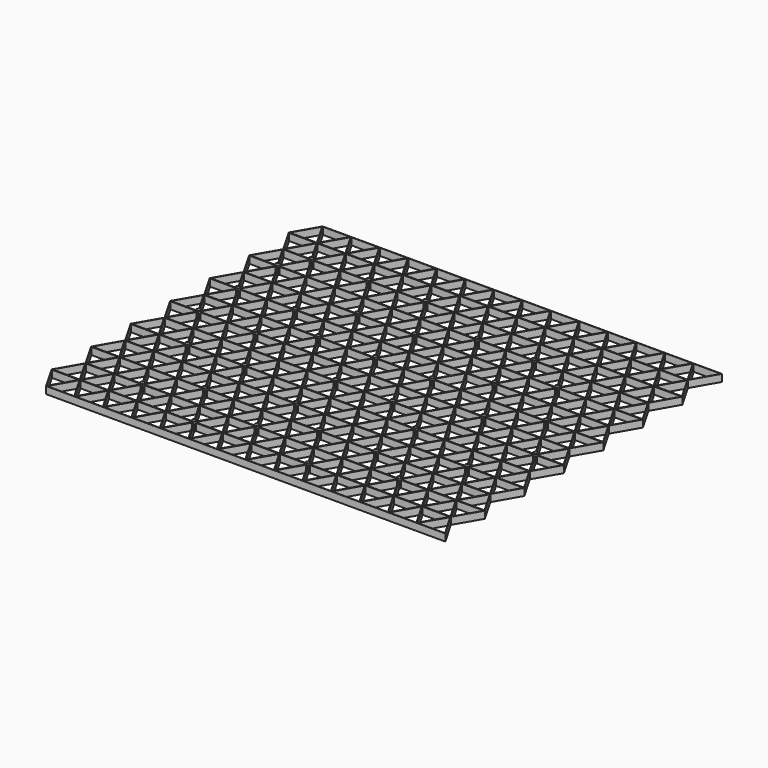
from build123d import *

# Parameters (mm, degrees)
F1_DEPTH = 5
F2_R     = 1.5
F3_DEPTH = 6


with BuildPart() as f1:
    # F0 (on Top) → F1 (new body)
    with BuildSketch(Plane.XY):
        Polygon((0, 34.641016), (10, 17.320508), (0, 0), (10, -17.320508), (30, -17.320508), (50, -17.320508), (70, -17.320508), (90, -17.320508), (110, -17.320508), (130, -17.320508), (150, -17.320508), (170, -17.320508), (190, -17.320508), (210, -17.320508), (230, -17.320508), (250, -17.320508), (270, -17.320508), (290, -17.320508), (280, 0), (290, 17.320508), (280, 34.641016), (290, 51.961524), (280, 69.282032), (290, 86.60254), (280, 103.923048), (290, 121.243557), (280, 138.564065), (290, 155.884573), (280, 173.205081), (290, 190.525589), (280, 207.846097), (290, 225.166605), (270, 225.166605), (250, 225.166605), (230, 225.166605), (210, 225.166605), (190, 225.166605), (170, 225.166605), (150, 225.166605), (130, 225.166605), (110, 225.166605), (90, 225.166605), (70, 225.166605), (50, 225.166605), (30, 225.166605), (10, 225.166605), (0, 207.846097), (10, 190.525589), (0, 173.205081), (10, 155.884573), (0, 138.564065), (10, 121.243557), (0, 103.923048), (10, 86.60254), (0, 69.282032), (10, 51.961524), align=None)
        Polygon((10, -16.820508), (0.433013, -0.25), (19.566987, -0.25), align=None, mode=Mode.SUBTRACT)
        Polygon((10.433013, -17.070508), (20, -0.5), (29.566987, -17.070508), align=None, mode=Mode.SUBTRACT)
        Polygon((30, -16.820508), (20.433013, -0.25), (39.566987, -0.25), align=None, mode=Mode.SUBTRACT)
        Polygon((19.566987, 0.25), (0.433013, 0.25), (10, 16.820508), align=None, mode=Mode.SUBTRACT)
        Polygon((29.566987, 17.070508), (20, 0.5), (10.433013, 17.070508), align=None, mode=Mode.SUBTRACT)
        Polygon((20.433013, 0.25), (30, 16.820508), (39.566987, 0.25), align=None, mode=Mode.SUBTRACT)
        Polygon((10, 17.820508), (0.433013, 34.391016), (19.566987, 34.391016), align=None, mode=Mode.SUBTRACT)
        Polygon((29.566987, 17.570508), (10.433013, 17.570508), (20, 34.141016), align=None, mode=Mode.SUBTRACT)
        Polygon((30, 17.820508), (20.433013, 34.391016), (39.566987, 34.391016), align=None, mode=Mode.SUBTRACT)
        Polygon((49.566987, -17.070508), (30.433013, -17.070508), (40, -0.5), align=None, mode=Mode.SUBTRACT)
        Polygon((50, -16.820508), (40.433013, -0.25), (59.566987, -0.25), align=None, mode=Mode.SUBTRACT)
        Polygon((69.566987, -17.070508), (50.433013, -17.070508), (60, -0.5), align=None, mode=Mode.SUBTRACT)
        Polygon((70, -16.820508), (60.433013, -0.25), (79.566987, -0.25), align=None, mode=Mode.SUBTRACT)
        Polygon((89.566987, -17.070508), (70.433013, -17.070508), (80, -0.5), align=None, mode=Mode.SUBTRACT)
        Polygon((90, -16.820508), (80.433013, -0.25), (99.566987, -0.25), align=None, mode=Mode.SUBTRACT)
        Polygon((109.566987, -17.070508), (90.433013, -17.070508), (100, -0.5), align=None, mode=Mode.SUBTRACT)
        Polygon((110, -16.820508), (100.433013, -0.25), (119.566987, -0.25), align=None, mode=Mode.SUBTRACT)
        Polygon((129.566987, -17.070508), (110.433013, -17.070508), (120, -0.5), align=None, mode=Mode.SUBTRACT)
        Polygon((130, -16.820508), (120.433013, -0.25), (139.566987, -0.25), align=None, mode=Mode.SUBTRACT)
        Polygon((49.566987, 17.070508), (40, 0.5), (30.433013, 17.070508), align=None, mode=Mode.SUBTRACT)
        Polygon((40.433013, 0.25), (50, 16.820508), (59.566987, 0.25), align=None, mode=Mode.SUBTRACT)
        Polygon((69.566987, 17.070508), (60, 0.5), (50.433013, 17.070508), align=None, mode=Mode.SUBTRACT)
        Polygon((60.433013, 0.25), (70, 16.820508), (79.566987, 0.25), align=None, mode=Mode.SUBTRACT)
        Polygon((89.566987, 17.070508), (80, 0.5), (70.433013, 17.070508), align=None, mode=Mode.SUBTRACT)
        Polygon((49.566987, 17.570508), (30.433013, 17.570508), (40, 34.141016), align=None, mode=Mode.SUBTRACT)
        Polygon((50, 17.820508), (40.433013, 34.391016), (59.566987, 34.391016), align=None, mode=Mode.SUBTRACT)
        Polygon((69.566987, 17.570508), (50.433013, 17.570508), (60, 34.141016), align=None, mode=Mode.SUBTRACT)
        Polygon((70, 17.820508), (60.433013, 34.391016), (79.566987, 34.391016), align=None, mode=Mode.SUBTRACT)
        Polygon((89.566987, 17.570508), (70.433013, 17.570508), (80, 34.141016), align=None, mode=Mode.SUBTRACT)
        Polygon((80.433013, 0.25), (90, 16.820508), (99.566987, 0.25), align=None, mode=Mode.SUBTRACT)
        Polygon((109.566987, 17.070508), (100, 0.5), (90.433013, 17.070508), align=None, mode=Mode.SUBTRACT)
        Polygon((100.433013, 0.25), (110, 16.820508), (119.566987, 0.25), align=None, mode=Mode.SUBTRACT)
        Polygon((129.566987, 17.070508), (120, 0.5), (110.433013, 17.070508), align=None, mode=Mode.SUBTRACT)
        Polygon((120.433013, 0.25), (130, 16.820508), (139.566987, 0.25), align=None, mode=Mode.SUBTRACT)
        Polygon((90, 17.820508), (80.433013, 34.391016), (99.566987, 34.391016), align=None, mode=Mode.SUBTRACT)
        Polygon((109.566987, 17.570508), (90.433013, 17.570508), (100, 34.141016), align=None, mode=Mode.SUBTRACT)
        Polygon((110, 17.820508), (100.433013, 34.391016), (119.566987, 34.391016), align=None, mode=Mode.SUBTRACT)
        Polygon((129.566987, 17.570508), (110.433013, 17.570508), (120, 34.141016), align=None, mode=Mode.SUBTRACT)
        Polygon((130, 17.820508), (120.433013, 34.391016), (139.566987, 34.391016), align=None, mode=Mode.SUBTRACT)
        Polygon((0.433013, 34.891016), (10, 51.461524), (19.566987, 34.891016), align=None, mode=Mode.SUBTRACT)
        Polygon((29.566987, 51.711524), (20, 35.141016), (10.433013, 51.711524), align=None, mode=Mode.SUBTRACT)
        Polygon((20.433013, 34.891016), (30, 51.461524), (39.566987, 34.891016), align=None, mode=Mode.SUBTRACT)
        Polygon((10, 52.461524), (0.433013, 69.032032), (19.566987, 69.032032), align=None, mode=Mode.SUBTRACT)
        Polygon((29.566987, 52.211524), (10.433013, 52.211524), (20, 68.782032), align=None, mode=Mode.SUBTRACT)
        Polygon((30, 52.461524), (20.433013, 69.032032), (39.566987, 69.032032), align=None, mode=Mode.SUBTRACT)
        Polygon((0.433013, 69.532032), (10, 86.10254), (19.566987, 69.532032), align=None, mode=Mode.SUBTRACT)
        Polygon((29.566987, 86.35254), (20, 69.782032), (10.433013, 86.35254), align=None, mode=Mode.SUBTRACT)
        Polygon((20.433013, 69.532032), (30, 86.10254), (39.566987, 69.532032), align=None, mode=Mode.SUBTRACT)
        Polygon((10, 87.10254), (0.433013, 103.673048), (19.566987, 103.673048), align=None, mode=Mode.SUBTRACT)
        Polygon((29.566987, 86.85254), (10.433013, 86.85254), (20, 103.423048), align=None, mode=Mode.SUBTRACT)
        Polygon((30, 87.10254), (20.433013, 103.673048), (39.566987, 103.673048), align=None, mode=Mode.SUBTRACT)
        Polygon((49.566987, 51.711524), (40, 35.141016), (30.433013, 51.711524), align=None, mode=Mode.SUBTRACT)
        Polygon((40.433013, 34.891016), (50, 51.461524), (59.566987, 34.891016), align=None, mode=Mode.SUBTRACT)
        Polygon((69.566987, 51.711524), (60, 35.141016), (50.433013, 51.711524), align=None, mode=Mode.SUBTRACT)
        Polygon((60.433013, 34.891016), (70, 51.461524), (79.566987, 34.891016), align=None, mode=Mode.SUBTRACT)
        Polygon((89.566987, 51.711524), (80, 35.141016), (70.433013, 51.711524), align=None, mode=Mode.SUBTRACT)
        Polygon((49.566987, 52.211524), (30.433013, 52.211524), (40, 68.782032), align=None, mode=Mode.SUBTRACT)
        Polygon((50, 52.461524), (40.433013, 69.032032), (59.566987, 69.032032), align=None, mode=Mode.SUBTRACT)
        Polygon((69.566987, 52.211524), (50.433013, 52.211524), (60, 68.782032), align=None, mode=Mode.SUBTRACT)
        Polygon((70, 52.461524), (60.433013, 69.032032), (79.566987, 69.032032), align=None, mode=Mode.SUBTRACT)
        Polygon((89.566987, 52.211524), (70.433013, 52.211524), (80, 68.782032), align=None, mode=Mode.SUBTRACT)
        Polygon((80.433013, 34.891016), (90, 51.461524), (99.566987, 34.891016), align=None, mode=Mode.SUBTRACT)
        Polygon((109.566987, 51.711524), (100, 35.141016), (90.433013, 51.711524), align=None, mode=Mode.SUBTRACT)
        Polygon((100.433013, 34.891016), (110, 51.461524), (119.566987, 34.891016), align=None, mode=Mode.SUBTRACT)
        Polygon((129.566987, 51.711524), (120, 35.141016), (110.433013, 51.711524), align=None, mode=Mode.SUBTRACT)
        Polygon((120.433013, 34.891016), (130, 51.461524), (139.566987, 34.891016), align=None, mode=Mode.SUBTRACT)
        Polygon((90, 52.461524), (80.433013, 69.032032), (99.566987, 69.032032), align=None, mode=Mode.SUBTRACT)
        Polygon((109.566987, 52.211524), (90.433013, 52.211524), (100, 68.782032), align=None, mode=Mode.SUBTRACT)
        Polygon((110, 52.461524), (100.433013, 69.032032), (119.566987, 69.032032), align=None, mode=Mode.SUBTRACT)
        Polygon((129.566987, 52.211524), (110.433013, 52.211524), (120, 68.782032), align=None, mode=Mode.SUBTRACT)
        Polygon((130, 52.461524), (120.433013, 69.032032), (139.566987, 69.032032), align=None, mode=Mode.SUBTRACT)
        Polygon((49.566987, 86.35254), (40, 69.782032), (30.433013, 86.35254), align=None, mode=Mode.SUBTRACT)
        Polygon((40.433013, 69.532032), (50, 86.10254), (59.566987, 69.532032), align=None, mode=Mode.SUBTRACT)
        Polygon((69.566987, 86.35254), (60, 69.782032), (50.433013, 86.35254), align=None, mode=Mode.SUBTRACT)
        Polygon((60.433013, 69.532032), (70, 86.10254), (79.566987, 69.532032), align=None, mode=Mode.SUBTRACT)
        Polygon((89.566987, 86.35254), (80, 69.782032), (70.433013, 86.35254), align=None, mode=Mode.SUBTRACT)
        Polygon((49.566987, 86.85254), (30.433013, 86.85254), (40, 103.423048), align=None, mode=Mode.SUBTRACT)
        Polygon((50, 87.10254), (40.433013, 103.673048), (59.566987, 103.673048), align=None, mode=Mode.SUBTRACT)
        Polygon((69.566987, 86.85254), (50.433013, 86.85254), (60, 103.423048), align=None, mode=Mode.SUBTRACT)
        Polygon((70, 87.10254), (60.433013, 103.673048), (79.566987, 103.673048), align=None, mode=Mode.SUBTRACT)
        Polygon((89.566987, 86.85254), (70.433013, 86.85254), (80, 103.423048), align=None, mode=Mode.SUBTRACT)
        Polygon((80.433013, 69.532032), (90, 86.10254), (99.566987, 69.532032), align=None, mode=Mode.SUBTRACT)
        Polygon((109.566987, 86.35254), (100, 69.782032), (90.433013, 86.35254), align=None, mode=Mode.SUBTRACT)
        Polygon((100.433013, 69.532032), (110, 86.10254), (119.566987, 69.532032), align=None, mode=Mode.SUBTRACT)
        Polygon((129.566987, 86.35254), (120, 69.782032), (110.433013, 86.35254), align=None, mode=Mode.SUBTRACT)
        Polygon((120.433013, 69.532032), (130, 86.10254), (139.566987, 69.532032), align=None, mode=Mode.SUBTRACT)
        Polygon((90, 87.10254), (80.433013, 103.673048), (99.566987, 103.673048), align=None, mode=Mode.SUBTRACT)
        Polygon((109.566987, 86.85254), (90.433013, 86.85254), (100, 103.423048), align=None, mode=Mode.SUBTRACT)
        Polygon((110, 87.10254), (100.433013, 103.673048), (119.566987, 103.673048), align=None, mode=Mode.SUBTRACT)
        Polygon((129.566987, 86.85254), (110.433013, 86.85254), (120, 103.423048), align=None, mode=Mode.SUBTRACT)
        Polygon((130, 87.10254), (120.433013, 103.673048), (139.566987, 103.673048), align=None, mode=Mode.SUBTRACT)
        Polygon((149.566987, -17.070508), (130.433013, -17.070508), (140, -0.5), align=None, mode=Mode.SUBTRACT)
        Polygon((150, -16.820508), (140.433013, -0.25), (159.566987, -0.25), align=None, mode=Mode.SUBTRACT)
        Polygon((169.566987, -17.070508), (150.433013, -17.070508), (160, -0.5), align=None, mode=Mode.SUBTRACT)
        Polygon((170, -16.820508), (160.433013, -0.25), (179.566987, -0.25), align=None, mode=Mode.SUBTRACT)
        Polygon((189.566987, -17.070508), (170.433013, -17.070508), (180, -0.5), align=None, mode=Mode.SUBTRACT)
        Polygon((190, -16.820508), (180.433013, -0.25), (199.566987, -0.25), align=None, mode=Mode.SUBTRACT)
        Polygon((209.566987, -17.070508), (190.433013, -17.070508), (200, -0.5), align=None, mode=Mode.SUBTRACT)
        Polygon((210, -16.820508), (200.433013, -0.25), (219.566987, -0.25), align=None, mode=Mode.SUBTRACT)
        Polygon((229.566987, -17.070508), (210.433013, -17.070508), (220, -0.5), align=None, mode=Mode.SUBTRACT)
        Polygon((230, -16.820508), (220.433013, -0.25), (239.566987, -0.25), align=None, mode=Mode.SUBTRACT)
        Polygon((249.566987, -17.070508), (230.433013, -17.070508), (240, -0.5), align=None, mode=Mode.SUBTRACT)
        Polygon((149.566987, 17.070508), (140, 0.5), (130.433013, 17.070508), align=None, mode=Mode.SUBTRACT)
        Polygon((140.433013, 0.25), (150, 16.820508), (159.566987, 0.25), align=None, mode=Mode.SUBTRACT)
        Polygon((169.566987, 17.070508), (160, 0.5), (150.433013, 17.070508), align=None, mode=Mode.SUBTRACT)
        Polygon((160.433013, 0.25), (170, 16.820508), (179.566987, 0.25), align=None, mode=Mode.SUBTRACT)
        Polygon((189.566987, 17.070508), (180, 0.5), (170.433013, 17.070508), align=None, mode=Mode.SUBTRACT)
        Polygon((180.433013, 0.25), (190, 16.820508), (199.566987, 0.25), align=None, mode=Mode.SUBTRACT)
        Polygon((149.566987, 17.570508), (130.433013, 17.570508), (140, 34.141016), align=None, mode=Mode.SUBTRACT)
        Polygon((150, 17.820508), (140.433013, 34.391016), (159.566987, 34.391016), align=None, mode=Mode.SUBTRACT)
        Polygon((169.566987, 17.570508), (150.433013, 17.570508), (160, 34.141016), align=None, mode=Mode.SUBTRACT)
        Polygon((170, 17.820508), (160.433013, 34.391016), (179.566987, 34.391016), align=None, mode=Mode.SUBTRACT)
        Polygon((189.566987, 17.570508), (170.433013, 17.570508), (180, 34.141016), align=None, mode=Mode.SUBTRACT)
        Polygon((190, 17.820508), (180.433013, 34.391016), (199.566987, 34.391016), align=None, mode=Mode.SUBTRACT)
        Polygon((209.566987, 17.070508), (200, 0.5), (190.433013, 17.070508), align=None, mode=Mode.SUBTRACT)
        Polygon((200.433013, 0.25), (210, 16.820508), (219.566987, 0.25), align=None, mode=Mode.SUBTRACT)
        Polygon((229.566987, 17.070508), (220, 0.5), (210.433013, 17.070508), align=None, mode=Mode.SUBTRACT)
        Polygon((220.433013, 0.25), (230, 16.820508), (239.566987, 0.25), align=None, mode=Mode.SUBTRACT)
        Polygon((249.566987, 17.070508), (240, 0.5), (230.433013, 17.070508), align=None, mode=Mode.SUBTRACT)
        Polygon((209.566987, 17.570508), (190.433013, 17.570508), (200, 34.141016), align=None, mode=Mode.SUBTRACT)
        Polygon((210, 17.820508), (200.433013, 34.391016), (219.566987, 34.391016), align=None, mode=Mode.SUBTRACT)
        Polygon((229.566987, 17.570508), (210.433013, 17.570508), (220, 34.141016), align=None, mode=Mode.SUBTRACT)
        Polygon((230, 17.820508), (220.433013, 34.391016), (239.566987, 34.391016), align=None, mode=Mode.SUBTRACT)
        Polygon((249.566987, 17.570508), (230.433013, 17.570508), (240, 34.141016), align=None, mode=Mode.SUBTRACT)
        Polygon((250, -16.820508), (240.433013, -0.25), (259.566987, -0.25), align=None, mode=Mode.SUBTRACT)
        Polygon((269.566987, -17.070508), (250.433013, -17.070508), (260, -0.5), align=None, mode=Mode.SUBTRACT)
        Polygon((270, -16.820508), (260.433013, -0.25), (279.566987, -0.25), align=None, mode=Mode.SUBTRACT)
        Polygon((289.566987, -17.070508), (270.433013, -17.070508), (280, -0.5), align=None, mode=Mode.SUBTRACT)
        Polygon((240.433013, 0.25), (250, 16.820508), (259.566987, 0.25), align=None, mode=Mode.SUBTRACT)
        Polygon((269.566987, 17.070508), (260, 0.5), (250.433013, 17.070508), align=None, mode=Mode.SUBTRACT)
        Polygon((260.433013, 0.25), (270, 16.820508), (279.566987, 0.25), align=None, mode=Mode.SUBTRACT)
        Polygon((289.566987, 17.070508), (280, 0.5), (270.433013, 17.070508), align=None, mode=Mode.SUBTRACT)
        Polygon((250, 17.820508), (240.433013, 34.391016), (259.566987, 34.391016), align=None, mode=Mode.SUBTRACT)
        Polygon((269.566987, 17.570508), (250.433013, 17.570508), (260, 34.141016), align=None, mode=Mode.SUBTRACT)
        Polygon((270, 17.820508), (260.433013, 34.391016), (279.566987, 34.391016), align=None, mode=Mode.SUBTRACT)
        Polygon((289.566987, 17.570508), (270.433013, 17.570508), (280, 34.141016), align=None, mode=Mode.SUBTRACT)
        Polygon((149.566987, 51.711524), (140, 35.141016), (130.433013, 51.711524), align=None, mode=Mode.SUBTRACT)
        Polygon((140.433013, 34.891016), (150, 51.461524), (159.566987, 34.891016), align=None, mode=Mode.SUBTRACT)
        Polygon((169.566987, 51.711524), (160, 35.141016), (150.433013, 51.711524), align=None, mode=Mode.SUBTRACT)
        Polygon((160.433013, 34.891016), (170, 51.461524), (179.566987, 34.891016), align=None, mode=Mode.SUBTRACT)
        Polygon((189.566987, 51.711524), (180, 35.141016), (170.433013, 51.711524), align=None, mode=Mode.SUBTRACT)
        Polygon((180.433013, 34.891016), (190, 51.461524), (199.566987, 34.891016), align=None, mode=Mode.SUBTRACT)
        Polygon((149.566987, 52.211524), (130.433013, 52.211524), (140, 68.782032), align=None, mode=Mode.SUBTRACT)
        Polygon((150, 52.461524), (140.433013, 69.032032), (159.566987, 69.032032), align=None, mode=Mode.SUBTRACT)
        Polygon((169.566987, 52.211524), (150.433013, 52.211524), (160, 68.782032), align=None, mode=Mode.SUBTRACT)
        Polygon((170, 52.461524), (160.433013, 69.032032), (179.566987, 69.032032), align=None, mode=Mode.SUBTRACT)
        Polygon((189.566987, 52.211524), (170.433013, 52.211524), (180, 68.782032), align=None, mode=Mode.SUBTRACT)
        Polygon((190, 52.461524), (180.433013, 69.032032), (199.566987, 69.032032), align=None, mode=Mode.SUBTRACT)
        Polygon((209.566987, 51.711524), (200, 35.141016), (190.433013, 51.711524), align=None, mode=Mode.SUBTRACT)
        Polygon((200.433013, 34.891016), (210, 51.461524), (219.566987, 34.891016), align=None, mode=Mode.SUBTRACT)
        Polygon((229.566987, 51.711524), (220, 35.141016), (210.433013, 51.711524), align=None, mode=Mode.SUBTRACT)
        Polygon((220.433013, 34.891016), (230, 51.461524), (239.566987, 34.891016), align=None, mode=Mode.SUBTRACT)
        Polygon((249.566987, 51.711524), (240, 35.141016), (230.433013, 51.711524), align=None, mode=Mode.SUBTRACT)
        Polygon((209.566987, 52.211524), (190.433013, 52.211524), (200, 68.782032), align=None, mode=Mode.SUBTRACT)
        Polygon((210, 52.461524), (200.433013, 69.032032), (219.566987, 69.032032), align=None, mode=Mode.SUBTRACT)
        Polygon((229.566987, 52.211524), (210.433013, 52.211524), (220, 68.782032), align=None, mode=Mode.SUBTRACT)
        Polygon((230, 52.461524), (220.433013, 69.032032), (239.566987, 69.032032), align=None, mode=Mode.SUBTRACT)
        Polygon((249.566987, 52.211524), (230.433013, 52.211524), (240, 68.782032), align=None, mode=Mode.SUBTRACT)
        Polygon((149.566987, 86.35254), (140, 69.782032), (130.433013, 86.35254), align=None, mode=Mode.SUBTRACT)
        Polygon((140.433013, 69.532032), (150, 86.10254), (159.566987, 69.532032), align=None, mode=Mode.SUBTRACT)
        Polygon((169.566987, 86.35254), (160, 69.782032), (150.433013, 86.35254), align=None, mode=Mode.SUBTRACT)
        Polygon((160.433013, 69.532032), (170, 86.10254), (179.566987, 69.532032), align=None, mode=Mode.SUBTRACT)
        Polygon((189.566987, 86.35254), (180, 69.782032), (170.433013, 86.35254), align=None, mode=Mode.SUBTRACT)
        Polygon((180.433013, 69.532032), (190, 86.10254), (199.566987, 69.532032), align=None, mode=Mode.SUBTRACT)
        Polygon((149.566987, 86.85254), (130.433013, 86.85254), (140, 103.423048), align=None, mode=Mode.SUBTRACT)
        Polygon((150, 87.10254), (140.433013, 103.673048), (159.566987, 103.673048), align=None, mode=Mode.SUBTRACT)
        Polygon((169.566987, 86.85254), (150.433013, 86.85254), (160, 103.423048), align=None, mode=Mode.SUBTRACT)
        Polygon((170, 87.10254), (160.433013, 103.673048), (179.566987, 103.673048), align=None, mode=Mode.SUBTRACT)
        Polygon((189.566987, 86.85254), (170.433013, 86.85254), (180, 103.423048), align=None, mode=Mode.SUBTRACT)
        Polygon((190, 87.10254), (180.433013, 103.673048), (199.566987, 103.673048), align=None, mode=Mode.SUBTRACT)
        Polygon((209.566987, 86.35254), (200, 69.782032), (190.433013, 86.35254), align=None, mode=Mode.SUBTRACT)
        Polygon((200.433013, 69.532032), (210, 86.10254), (219.566987, 69.532032), align=None, mode=Mode.SUBTRACT)
        Polygon((229.566987, 86.35254), (220, 69.782032), (210.433013, 86.35254), align=None, mode=Mode.SUBTRACT)
        Polygon((220.433013, 69.532032), (230, 86.10254), (239.566987, 69.532032), align=None, mode=Mode.SUBTRACT)
        Polygon((249.566987, 86.35254), (240, 69.782032), (230.433013, 86.35254), align=None, mode=Mode.SUBTRACT)
        Polygon((209.566987, 86.85254), (190.433013, 86.85254), (200, 103.423048), align=None, mode=Mode.SUBTRACT)
        Polygon((210, 87.10254), (200.433013, 103.673048), (219.566987, 103.673048), align=None, mode=Mode.SUBTRACT)
        Polygon((229.566987, 86.85254), (210.433013, 86.85254), (220, 103.423048), align=None, mode=Mode.SUBTRACT)
        Polygon((230, 87.10254), (220.433013, 103.673048), (239.566987, 103.673048), align=None, mode=Mode.SUBTRACT)
        Polygon((249.566987, 86.85254), (230.433013, 86.85254), (240, 103.423048), align=None, mode=Mode.SUBTRACT)
        Polygon((240.433013, 34.891016), (250, 51.461524), (259.566987, 34.891016), align=None, mode=Mode.SUBTRACT)
        Polygon((269.566987, 51.711524), (260, 35.141016), (250.433013, 51.711524), align=None, mode=Mode.SUBTRACT)
        Polygon((260.433013, 34.891016), (270, 51.461524), (279.566987, 34.891016), align=None, mode=Mode.SUBTRACT)
        Polygon((289.566987, 51.711524), (280, 35.141016), (270.433013, 51.711524), align=None, mode=Mode.SUBTRACT)
        Polygon((250, 52.461524), (240.433013, 69.032032), (259.566987, 69.032032), align=None, mode=Mode.SUBTRACT)
        Polygon((269.566987, 52.211524), (250.433013, 52.211524), (260, 68.782032), align=None, mode=Mode.SUBTRACT)
        Polygon((270, 52.461524), (260.433013, 69.032032), (279.566987, 69.032032), align=None, mode=Mode.SUBTRACT)
        Polygon((289.566987, 52.211524), (270.433013, 52.211524), (280, 68.782032), align=None, mode=Mode.SUBTRACT)
        Polygon((240.433013, 69.532032), (250, 86.10254), (259.566987, 69.532032), align=None, mode=Mode.SUBTRACT)
        Polygon((269.566987, 86.35254), (260, 69.782032), (250.433013, 86.35254), align=None, mode=Mode.SUBTRACT)
        Polygon((260.433013, 69.532032), (270, 86.10254), (279.566987, 69.532032), align=None, mode=Mode.SUBTRACT)
        Polygon((289.566987, 86.35254), (280, 69.782032), (270.433013, 86.35254), align=None, mode=Mode.SUBTRACT)
        Polygon((250, 87.10254), (240.433013, 103.673048), (259.566987, 103.673048), align=None, mode=Mode.SUBTRACT)
        Polygon((269.566987, 86.85254), (250.433013, 86.85254), (260, 103.423048), align=None, mode=Mode.SUBTRACT)
        Polygon((270, 87.10254), (260.433013, 103.673048), (279.566987, 103.673048), align=None, mode=Mode.SUBTRACT)
        Polygon((289.566987, 86.85254), (270.433013, 86.85254), (280, 103.423048), align=None, mode=Mode.SUBTRACT)
        Polygon((0.433013, 104.173048), (10, 120.743557), (19.566987, 104.173048), align=None, mode=Mode.SUBTRACT)
        Polygon((29.566987, 120.993557), (20, 104.423048), (10.433013, 120.993557), align=None, mode=Mode.SUBTRACT)
        Polygon((20.433013, 104.173048), (30, 120.743557), (39.566987, 104.173048), align=None, mode=Mode.SUBTRACT)
        Polygon((10, 121.743557), (0.433013, 138.314065), (19.566987, 138.314065), align=None, mode=Mode.SUBTRACT)
        Polygon((29.566987, 121.493557), (10.433013, 121.493557), (20, 138.064065), align=None, mode=Mode.SUBTRACT)
        Polygon((30, 121.743557), (20.433013, 138.314065), (39.566987, 138.314065), align=None, mode=Mode.SUBTRACT)
        Polygon((0.433013, 138.814065), (10, 155.384573), (19.566987, 138.814065), align=None, mode=Mode.SUBTRACT)
        Polygon((29.566987, 155.634573), (20, 139.064065), (10.433013, 155.634573), align=None, mode=Mode.SUBTRACT)
        Polygon((20.433013, 138.814065), (30, 155.384573), (39.566987, 138.814065), align=None, mode=Mode.SUBTRACT)
        Polygon((10, 156.384573), (0.433013, 172.955081), (19.566987, 172.955081), align=None, mode=Mode.SUBTRACT)
        Polygon((29.566987, 156.134573), (10.433013, 156.134573), (20, 172.705081), align=None, mode=Mode.SUBTRACT)
        Polygon((30, 156.384573), (20.433013, 172.955081), (39.566987, 172.955081), align=None, mode=Mode.SUBTRACT)
        Polygon((49.566987, 120.993557), (40, 104.423048), (30.433013, 120.993557), align=None, mode=Mode.SUBTRACT)
        Polygon((40.433013, 104.173048), (50, 120.743557), (59.566987, 104.173048), align=None, mode=Mode.SUBTRACT)
        Polygon((69.566987, 120.993557), (60, 104.423048), (50.433013, 120.993557), align=None, mode=Mode.SUBTRACT)
        Polygon((60.433013, 104.173048), (70, 120.743557), (79.566987, 104.173048), align=None, mode=Mode.SUBTRACT)
        Polygon((89.566987, 120.993557), (80, 104.423048), (70.433013, 120.993557), align=None, mode=Mode.SUBTRACT)
        Polygon((49.566987, 121.493557), (30.433013, 121.493557), (40, 138.064065), align=None, mode=Mode.SUBTRACT)
        Polygon((50, 121.743557), (40.433013, 138.314065), (59.566987, 138.314065), align=None, mode=Mode.SUBTRACT)
        Polygon((69.566987, 121.493557), (50.433013, 121.493557), (60, 138.064065), align=None, mode=Mode.SUBTRACT)
        Polygon((70, 121.743557), (60.433013, 138.314065), (79.566987, 138.314065), align=None, mode=Mode.SUBTRACT)
        Polygon((89.566987, 121.493557), (70.433013, 121.493557), (80, 138.064065), align=None, mode=Mode.SUBTRACT)
        Polygon((80.433013, 104.173048), (90, 120.743557), (99.566987, 104.173048), align=None, mode=Mode.SUBTRACT)
        Polygon((109.566987, 120.993557), (100, 104.423048), (90.433013, 120.993557), align=None, mode=Mode.SUBTRACT)
        Polygon((100.433013, 104.173048), (110, 120.743557), (119.566987, 104.173048), align=None, mode=Mode.SUBTRACT)
        Polygon((129.566987, 120.993557), (120, 104.423048), (110.433013, 120.993557), align=None, mode=Mode.SUBTRACT)
        Polygon((120.433013, 104.173048), (130, 120.743557), (139.566987, 104.173048), align=None, mode=Mode.SUBTRACT)
        Polygon((90, 121.743557), (80.433013, 138.314065), (99.566987, 138.314065), align=None, mode=Mode.SUBTRACT)
        Polygon((109.566987, 121.493557), (90.433013, 121.493557), (100, 138.064065), align=None, mode=Mode.SUBTRACT)
        Polygon((110, 121.743557), (100.433013, 138.314065), (119.566987, 138.314065), align=None, mode=Mode.SUBTRACT)
        Polygon((129.566987, 121.493557), (110.433013, 121.493557), (120, 138.064065), align=None, mode=Mode.SUBTRACT)
        Polygon((130, 121.743557), (120.433013, 138.314065), (139.566987, 138.314065), align=None, mode=Mode.SUBTRACT)
        Polygon((49.566987, 155.634573), (40, 139.064065), (30.433013, 155.634573), align=None, mode=Mode.SUBTRACT)
        Polygon((40.433013, 138.814065), (50, 155.384573), (59.566987, 138.814065), align=None, mode=Mode.SUBTRACT)
        Polygon((69.566987, 155.634573), (60, 139.064065), (50.433013, 155.634573), align=None, mode=Mode.SUBTRACT)
        Polygon((60.433013, 138.814065), (70, 155.384573), (79.566987, 138.814065), align=None, mode=Mode.SUBTRACT)
        Polygon((89.566987, 155.634573), (80, 139.064065), (70.433013, 155.634573), align=None, mode=Mode.SUBTRACT)
        Polygon((49.566987, 156.134573), (30.433013, 156.134573), (40, 172.705081), align=None, mode=Mode.SUBTRACT)
        Polygon((50, 156.384573), (40.433013, 172.955081), (59.566987, 172.955081), align=None, mode=Mode.SUBTRACT)
        Polygon((69.566987, 156.134573), (50.433013, 156.134573), (60, 172.705081), align=None, mode=Mode.SUBTRACT)
        Polygon((70, 156.384573), (60.433013, 172.955081), (79.566987, 172.955081), align=None, mode=Mode.SUBTRACT)
        Polygon((89.566987, 156.134573), (70.433013, 156.134573), (80, 172.705081), align=None, mode=Mode.SUBTRACT)
        Polygon((80.433013, 138.814065), (90, 155.384573), (99.566987, 138.814065), align=None, mode=Mode.SUBTRACT)
        Polygon((109.566987, 155.634573), (100, 139.064065), (90.433013, 155.634573), align=None, mode=Mode.SUBTRACT)
        Polygon((100.433013, 138.814065), (110, 155.384573), (119.566987, 138.814065), align=None, mode=Mode.SUBTRACT)
        Polygon((129.566987, 155.634573), (120, 139.064065), (110.433013, 155.634573), align=None, mode=Mode.SUBTRACT)
        Polygon((120.433013, 138.814065), (130, 155.384573), (139.566987, 138.814065), align=None, mode=Mode.SUBTRACT)
        Polygon((90, 156.384573), (80.433013, 172.955081), (99.566987, 172.955081), align=None, mode=Mode.SUBTRACT)
        Polygon((109.566987, 156.134573), (90.433013, 156.134573), (100, 172.705081), align=None, mode=Mode.SUBTRACT)
        Polygon((110, 156.384573), (100.433013, 172.955081), (119.566987, 172.955081), align=None, mode=Mode.SUBTRACT)
        Polygon((129.566987, 156.134573), (110.433013, 156.134573), (120, 172.705081), align=None, mode=Mode.SUBTRACT)
        Polygon((130, 156.384573), (120.433013, 172.955081), (139.566987, 172.955081), align=None, mode=Mode.SUBTRACT)
        Polygon((0.433013, 173.455081), (10, 190.025589), (19.566987, 173.455081), align=None, mode=Mode.SUBTRACT)
        Polygon((29.566987, 190.275589), (20, 173.705081), (10.433013, 190.275589), align=None, mode=Mode.SUBTRACT)
        Polygon((20.433013, 173.455081), (30, 190.025589), (39.566987, 173.455081), align=None, mode=Mode.SUBTRACT)
        Polygon((10, 191.025589), (0.433013, 207.596097), (19.566987, 207.596097), align=None, mode=Mode.SUBTRACT)
        Polygon((29.566987, 190.775589), (10.433013, 190.775589), (20, 207.346097), align=None, mode=Mode.SUBTRACT)
        Polygon((30, 191.025589), (20.433013, 207.596097), (39.566987, 207.596097), align=None, mode=Mode.SUBTRACT)
        Polygon((0.433013, 208.096097), (10, 224.666605), (19.566987, 208.096097), align=None, mode=Mode.SUBTRACT)
        Polygon((29.566987, 224.916605), (20, 208.346097), (10.433013, 224.916605), align=None, mode=Mode.SUBTRACT)
        Polygon((20.433013, 208.096097), (30, 224.666605), (39.566987, 208.096097), align=None, mode=Mode.SUBTRACT)
        Polygon((49.566987, 190.275589), (40, 173.705081), (30.433013, 190.275589), align=None, mode=Mode.SUBTRACT)
        Polygon((40.433013, 173.455081), (50, 190.025589), (59.566987, 173.455081), align=None, mode=Mode.SUBTRACT)
        Polygon((69.566987, 190.275589), (60, 173.705081), (50.433013, 190.275589), align=None, mode=Mode.SUBTRACT)
        Polygon((60.433013, 173.455081), (70, 190.025589), (79.566987, 173.455081), align=None, mode=Mode.SUBTRACT)
        Polygon((89.566987, 190.275589), (80, 173.705081), (70.433013, 190.275589), align=None, mode=Mode.SUBTRACT)
        Polygon((49.566987, 190.775589), (30.433013, 190.775589), (40, 207.346097), align=None, mode=Mode.SUBTRACT)
        Polygon((50, 191.025589), (40.433013, 207.596097), (59.566987, 207.596097), align=None, mode=Mode.SUBTRACT)
        Polygon((69.566987, 190.775589), (50.433013, 190.775589), (60, 207.346097), align=None, mode=Mode.SUBTRACT)
        Polygon((70, 191.025589), (60.433013, 207.596097), (79.566987, 207.596097), align=None, mode=Mode.SUBTRACT)
        Polygon((89.566987, 190.775589), (70.433013, 190.775589), (80, 207.346097), align=None, mode=Mode.SUBTRACT)
        Polygon((80.433013, 173.455081), (90, 190.025589), (99.566987, 173.455081), align=None, mode=Mode.SUBTRACT)
        Polygon((109.566987, 190.275589), (100, 173.705081), (90.433013, 190.275589), align=None, mode=Mode.SUBTRACT)
        Polygon((100.433013, 173.455081), (110, 190.025589), (119.566987, 173.455081), align=None, mode=Mode.SUBTRACT)
        Polygon((129.566987, 190.275589), (120, 173.705081), (110.433013, 190.275589), align=None, mode=Mode.SUBTRACT)
        Polygon((120.433013, 173.455081), (130, 190.025589), (139.566987, 173.455081), align=None, mode=Mode.SUBTRACT)
        Polygon((90, 191.025589), (80.433013, 207.596097), (99.566987, 207.596097), align=None, mode=Mode.SUBTRACT)
        Polygon((109.566987, 190.775589), (90.433013, 190.775589), (100, 207.346097), align=None, mode=Mode.SUBTRACT)
        Polygon((110, 191.025589), (100.433013, 207.596097), (119.566987, 207.596097), align=None, mode=Mode.SUBTRACT)
        Polygon((129.566987, 190.775589), (110.433013, 190.775589), (120, 207.346097), align=None, mode=Mode.SUBTRACT)
        Polygon((130, 191.025589), (120.433013, 207.596097), (139.566987, 207.596097), align=None, mode=Mode.SUBTRACT)
        Polygon((49.566987, 224.916605), (40, 208.346097), (30.433013, 224.916605), align=None, mode=Mode.SUBTRACT)
        Polygon((40.433013, 208.096097), (50, 224.666605), (59.566987, 208.096097), align=None, mode=Mode.SUBTRACT)
        Polygon((69.566987, 224.916605), (60, 208.346097), (50.433013, 224.916605), align=None, mode=Mode.SUBTRACT)
        Polygon((60.433013, 208.096097), (70, 224.666605), (79.566987, 208.096097), align=None, mode=Mode.SUBTRACT)
        Polygon((89.566987, 224.916605), (80, 208.346097), (70.433013, 224.916605), align=None, mode=Mode.SUBTRACT)
        Polygon((80.433013, 208.096097), (90, 224.666605), (99.566987, 208.096097), align=None, mode=Mode.SUBTRACT)
        Polygon((109.566987, 224.916605), (100, 208.346097), (90.433013, 224.916605), align=None, mode=Mode.SUBTRACT)
        Polygon((100.433013, 208.096097), (110, 224.666605), (119.566987, 208.096097), align=None, mode=Mode.SUBTRACT)
        Polygon((129.566987, 224.916605), (120, 208.346097), (110.433013, 224.916605), align=None, mode=Mode.SUBTRACT)
        Polygon((120.433013, 208.096097), (130, 224.666605), (139.566987, 208.096097), align=None, mode=Mode.SUBTRACT)
        Polygon((149.566987, 120.993557), (140, 104.423048), (130.433013, 120.993557), align=None, mode=Mode.SUBTRACT)
        Polygon((140.433013, 104.173048), (150, 120.743557), (159.566987, 104.173048), align=None, mode=Mode.SUBTRACT)
        Polygon((169.566987, 120.993557), (160, 104.423048), (150.433013, 120.993557), align=None, mode=Mode.SUBTRACT)
        Polygon((160.433013, 104.173048), (170, 120.743557), (179.566987, 104.173048), align=None, mode=Mode.SUBTRACT)
        Polygon((189.566987, 120.993557), (180, 104.423048), (170.433013, 120.993557), align=None, mode=Mode.SUBTRACT)
        Polygon((180.433013, 104.173048), (190, 120.743557), (199.566987, 104.173048), align=None, mode=Mode.SUBTRACT)
        Polygon((149.566987, 121.493557), (130.433013, 121.493557), (140, 138.064065), align=None, mode=Mode.SUBTRACT)
        Polygon((150, 121.743557), (140.433013, 138.314065), (159.566987, 138.314065), align=None, mode=Mode.SUBTRACT)
        Polygon((169.566987, 121.493557), (150.433013, 121.493557), (160, 138.064065), align=None, mode=Mode.SUBTRACT)
        Polygon((170, 121.743557), (160.433013, 138.314065), (179.566987, 138.314065), align=None, mode=Mode.SUBTRACT)
        Polygon((189.566987, 121.493557), (170.433013, 121.493557), (180, 138.064065), align=None, mode=Mode.SUBTRACT)
        Polygon((190, 121.743557), (180.433013, 138.314065), (199.566987, 138.314065), align=None, mode=Mode.SUBTRACT)
        Polygon((209.566987, 120.993557), (200, 104.423048), (190.433013, 120.993557), align=None, mode=Mode.SUBTRACT)
        Polygon((200.433013, 104.173048), (210, 120.743557), (219.566987, 104.173048), align=None, mode=Mode.SUBTRACT)
        Polygon((229.566987, 120.993557), (220, 104.423048), (210.433013, 120.993557), align=None, mode=Mode.SUBTRACT)
        Polygon((220.433013, 104.173048), (230, 120.743557), (239.566987, 104.173048), align=None, mode=Mode.SUBTRACT)
        Polygon((249.566987, 120.993557), (240, 104.423048), (230.433013, 120.993557), align=None, mode=Mode.SUBTRACT)
        Polygon((209.566987, 121.493557), (190.433013, 121.493557), (200, 138.064065), align=None, mode=Mode.SUBTRACT)
        Polygon((210, 121.743557), (200.433013, 138.314065), (219.566987, 138.314065), align=None, mode=Mode.SUBTRACT)
        Polygon((229.566987, 121.493557), (210.433013, 121.493557), (220, 138.064065), align=None, mode=Mode.SUBTRACT)
        Polygon((230, 121.743557), (220.433013, 138.314065), (239.566987, 138.314065), align=None, mode=Mode.SUBTRACT)
        Polygon((249.566987, 121.493557), (230.433013, 121.493557), (240, 138.064065), align=None, mode=Mode.SUBTRACT)
        Polygon((149.566987, 155.634573), (140, 139.064065), (130.433013, 155.634573), align=None, mode=Mode.SUBTRACT)
        Polygon((140.433013, 138.814065), (150, 155.384573), (159.566987, 138.814065), align=None, mode=Mode.SUBTRACT)
        Polygon((169.566987, 155.634573), (160, 139.064065), (150.433013, 155.634573), align=None, mode=Mode.SUBTRACT)
        Polygon((160.433013, 138.814065), (170, 155.384573), (179.566987, 138.814065), align=None, mode=Mode.SUBTRACT)
        Polygon((189.566987, 155.634573), (180, 139.064065), (170.433013, 155.634573), align=None, mode=Mode.SUBTRACT)
        Polygon((180.433013, 138.814065), (190, 155.384573), (199.566987, 138.814065), align=None, mode=Mode.SUBTRACT)
        Polygon((149.566987, 156.134573), (130.433013, 156.134573), (140, 172.705081), align=None, mode=Mode.SUBTRACT)
        Polygon((150, 156.384573), (140.433013, 172.955081), (159.566987, 172.955081), align=None, mode=Mode.SUBTRACT)
        Polygon((169.566987, 156.134573), (150.433013, 156.134573), (160, 172.705081), align=None, mode=Mode.SUBTRACT)
        Polygon((170, 156.384573), (160.433013, 172.955081), (179.566987, 172.955081), align=None, mode=Mode.SUBTRACT)
        Polygon((189.566987, 156.134573), (170.433013, 156.134573), (180, 172.705081), align=None, mode=Mode.SUBTRACT)
        Polygon((190, 156.384573), (180.433013, 172.955081), (199.566987, 172.955081), align=None, mode=Mode.SUBTRACT)
        Polygon((209.566987, 155.634573), (200, 139.064065), (190.433013, 155.634573), align=None, mode=Mode.SUBTRACT)
        Polygon((200.433013, 138.814065), (210, 155.384573), (219.566987, 138.814065), align=None, mode=Mode.SUBTRACT)
        Polygon((229.566987, 155.634573), (220, 139.064065), (210.433013, 155.634573), align=None, mode=Mode.SUBTRACT)
        Polygon((220.433013, 138.814065), (230, 155.384573), (239.566987, 138.814065), align=None, mode=Mode.SUBTRACT)
        Polygon((249.566987, 155.634573), (240, 139.064065), (230.433013, 155.634573), align=None, mode=Mode.SUBTRACT)
        Polygon((209.566987, 156.134573), (190.433013, 156.134573), (200, 172.705081), align=None, mode=Mode.SUBTRACT)
        Polygon((210, 156.384573), (200.433013, 172.955081), (219.566987, 172.955081), align=None, mode=Mode.SUBTRACT)
        Polygon((229.566987, 156.134573), (210.433013, 156.134573), (220, 172.705081), align=None, mode=Mode.SUBTRACT)
        Polygon((230, 156.384573), (220.433013, 172.955081), (239.566987, 172.955081), align=None, mode=Mode.SUBTRACT)
        Polygon((249.566987, 156.134573), (230.433013, 156.134573), (240, 172.705081), align=None, mode=Mode.SUBTRACT)
        Polygon((240.433013, 104.173048), (250, 120.743557), (259.566987, 104.173048), align=None, mode=Mode.SUBTRACT)
        Polygon((269.566987, 120.993557), (260, 104.423048), (250.433013, 120.993557), align=None, mode=Mode.SUBTRACT)
        Polygon((260.433013, 104.173048), (270, 120.743557), (279.566987, 104.173048), align=None, mode=Mode.SUBTRACT)
        Polygon((289.566987, 120.993557), (280, 104.423048), (270.433013, 120.993557), align=None, mode=Mode.SUBTRACT)
        Polygon((250, 121.743557), (240.433013, 138.314065), (259.566987, 138.314065), align=None, mode=Mode.SUBTRACT)
        Polygon((269.566987, 121.493557), (250.433013, 121.493557), (260, 138.064065), align=None, mode=Mode.SUBTRACT)
        Polygon((270, 121.743557), (260.433013, 138.314065), (279.566987, 138.314065), align=None, mode=Mode.SUBTRACT)
        Polygon((289.566987, 121.493557), (270.433013, 121.493557), (280, 138.064065), align=None, mode=Mode.SUBTRACT)
        Polygon((240.433013, 138.814065), (250, 155.384573), (259.566987, 138.814065), align=None, mode=Mode.SUBTRACT)
        Polygon((269.566987, 155.634573), (260, 139.064065), (250.433013, 155.634573), align=None, mode=Mode.SUBTRACT)
        Polygon((260.433013, 138.814065), (270, 155.384573), (279.566987, 138.814065), align=None, mode=Mode.SUBTRACT)
        Polygon((289.566987, 155.634573), (280, 139.064065), (270.433013, 155.634573), align=None, mode=Mode.SUBTRACT)
        Polygon((250, 156.384573), (240.433013, 172.955081), (259.566987, 172.955081), align=None, mode=Mode.SUBTRACT)
        Polygon((269.566987, 156.134573), (250.433013, 156.134573), (260, 172.705081), align=None, mode=Mode.SUBTRACT)
        Polygon((270, 156.384573), (260.433013, 172.955081), (279.566987, 172.955081), align=None, mode=Mode.SUBTRACT)
        Polygon((289.566987, 156.134573), (270.433013, 156.134573), (280, 172.705081), align=None, mode=Mode.SUBTRACT)
        Polygon((149.566987, 190.275589), (140, 173.705081), (130.433013, 190.275589), align=None, mode=Mode.SUBTRACT)
        Polygon((140.433013, 173.455081), (150, 190.025589), (159.566987, 173.455081), align=None, mode=Mode.SUBTRACT)
        Polygon((169.566987, 190.275589), (160, 173.705081), (150.433013, 190.275589), align=None, mode=Mode.SUBTRACT)
        Polygon((160.433013, 173.455081), (170, 190.025589), (179.566987, 173.455081), align=None, mode=Mode.SUBTRACT)
        Polygon((189.566987, 190.275589), (180, 173.705081), (170.433013, 190.275589), align=None, mode=Mode.SUBTRACT)
        Polygon((180.433013, 173.455081), (190, 190.025589), (199.566987, 173.455081), align=None, mode=Mode.SUBTRACT)
        Polygon((149.566987, 190.775589), (130.433013, 190.775589), (140, 207.346097), align=None, mode=Mode.SUBTRACT)
        Polygon((150, 191.025589), (140.433013, 207.596097), (159.566987, 207.596097), align=None, mode=Mode.SUBTRACT)
        Polygon((169.566987, 190.775589), (150.433013, 190.775589), (160, 207.346097), align=None, mode=Mode.SUBTRACT)
        Polygon((170, 191.025589), (160.433013, 207.596097), (179.566987, 207.596097), align=None, mode=Mode.SUBTRACT)
        Polygon((189.566987, 190.775589), (170.433013, 190.775589), (180, 207.346097), align=None, mode=Mode.SUBTRACT)
        Polygon((190, 191.025589), (180.433013, 207.596097), (199.566987, 207.596097), align=None, mode=Mode.SUBTRACT)
        Polygon((209.566987, 190.275589), (200, 173.705081), (190.433013, 190.275589), align=None, mode=Mode.SUBTRACT)
        Polygon((200.433013, 173.455081), (210, 190.025589), (219.566987, 173.455081), align=None, mode=Mode.SUBTRACT)
        Polygon((229.566987, 190.275589), (220, 173.705081), (210.433013, 190.275589), align=None, mode=Mode.SUBTRACT)
        Polygon((220.433013, 173.455081), (230, 190.025589), (239.566987, 173.455081), align=None, mode=Mode.SUBTRACT)
        Polygon((249.566987, 190.275589), (240, 173.705081), (230.433013, 190.275589), align=None, mode=Mode.SUBTRACT)
        Polygon((209.566987, 190.775589), (190.433013, 190.775589), (200, 207.346097), align=None, mode=Mode.SUBTRACT)
        Polygon((210, 191.025589), (200.433013, 207.596097), (219.566987, 207.596097), align=None, mode=Mode.SUBTRACT)
        Polygon((229.566987, 190.775589), (210.433013, 190.775589), (220, 207.346097), align=None, mode=Mode.SUBTRACT)
        Polygon((230, 191.025589), (220.433013, 207.596097), (239.566987, 207.596097), align=None, mode=Mode.SUBTRACT)
        Polygon((249.566987, 190.775589), (230.433013, 190.775589), (240, 207.346097), align=None, mode=Mode.SUBTRACT)
        Polygon((149.566987, 224.916605), (140, 208.346097), (130.433013, 224.916605), align=None, mode=Mode.SUBTRACT)
        Polygon((140.433013, 208.096097), (150, 224.666605), (159.566987, 208.096097), align=None, mode=Mode.SUBTRACT)
        Polygon((169.566987, 224.916605), (160, 208.346097), (150.433013, 224.916605), align=None, mode=Mode.SUBTRACT)
        Polygon((160.433013, 208.096097), (170, 224.666605), (179.566987, 208.096097), align=None, mode=Mode.SUBTRACT)
        Polygon((189.566987, 224.916605), (180, 208.346097), (170.433013, 224.916605), align=None, mode=Mode.SUBTRACT)
        Polygon((180.433013, 208.096097), (190, 224.666605), (199.566987, 208.096097), align=None, mode=Mode.SUBTRACT)
        Polygon((209.566987, 224.916605), (200, 208.346097), (190.433013, 224.916605), align=None, mode=Mode.SUBTRACT)
        Polygon((200.433013, 208.096097), (210, 224.666605), (219.566987, 208.096097), align=None, mode=Mode.SUBTRACT)
        Polygon((229.566987, 224.916605), (220, 208.346097), (210.433013, 224.916605), align=None, mode=Mode.SUBTRACT)
        Polygon((220.433013, 208.096097), (230, 224.666605), (239.566987, 208.096097), align=None, mode=Mode.SUBTRACT)
        Polygon((249.566987, 224.916605), (240, 208.346097), (230.433013, 224.916605), align=None, mode=Mode.SUBTRACT)
        Polygon((240.433013, 173.455081), (250, 190.025589), (259.566987, 173.455081), align=None, mode=Mode.SUBTRACT)
        Polygon((269.566987, 190.275589), (260, 173.705081), (250.433013, 190.275589), align=None, mode=Mode.SUBTRACT)
        Polygon((260.433013, 173.455081), (270, 190.025589), (279.566987, 173.455081), align=None, mode=Mode.SUBTRACT)
        Polygon((289.566987, 190.275589), (280, 173.705081), (270.433013, 190.275589), align=None, mode=Mode.SUBTRACT)
        Polygon((250, 191.025589), (240.433013, 207.596097), (259.566987, 207.596097), align=None, mode=Mode.SUBTRACT)
        Polygon((269.566987, 190.775589), (250.433013, 190.775589), (260, 207.346097), align=None, mode=Mode.SUBTRACT)
        Polygon((270, 191.025589), (260.433013, 207.596097), (279.566987, 207.596097), align=None, mode=Mode.SUBTRACT)
        Polygon((289.566987, 190.775589), (270.433013, 190.775589), (280, 207.346097), align=None, mode=Mode.SUBTRACT)
        Polygon((240.433013, 208.096097), (250, 224.666605), (259.566987, 208.096097), align=None, mode=Mode.SUBTRACT)
        Polygon((269.566987, 224.916605), (260, 208.346097), (250.433013, 224.916605), align=None, mode=Mode.SUBTRACT)
        Polygon((260.433013, 208.096097), (270, 224.666605), (279.566987, 208.096097), align=None, mode=Mode.SUBTRACT)
        Polygon((289.566987, 224.916605), (280, 208.346097), (270.433013, 224.916605), align=None, mode=Mode.SUBTRACT)
    extrude(amount=F1_DEPTH)


with BuildPart() as f3:
    # F2 (on Top) → F3 (new body)
    with BuildSketch(Plane.XY):
        with Locations((50, 17.320508)):
            Circle(F2_R)
        with Locations((100, 0)):
            Circle(F2_R)
        with Locations((130, 17.320508)):
            Circle(F2_R)
        with Locations((80, 34.641016)):
            Circle(F2_R)
        with Locations((80, 69.282032)):
            Circle(F2_R)
        with Locations((40, 69.282032)):
            Circle(F2_R)
        with Locations((130, 51.961524)):
            Circle(F2_R)
        with Locations((180, 0)):
            Circle(F2_R)
        with Locations((200, 34.641016)):
            Circle(F2_R)
        with Locations((160, 34.641016)):
            Circle(F2_R)
        with Locations((230, 17.320508)):
            Circle(F2_R)
        with Locations((250, 51.961524)):
            Circle(F2_R)
        with Locations((270, 86.60254)):
            Circle(F2_R)
        with Locations((200, 69.282032)):
            Circle(F2_R)
        with Locations((170, 86.60254)):
            Circle(F2_R)
        with Locations((130, 86.60254)):
            Circle(F2_R)
        with Locations((60, 103.923048)):
            Circle(F2_R)
        with Locations((20, 103.923048)):
            Circle(F2_R)
        with Locations((90, 121.243557)):
            Circle(F2_R)
        with Locations((130, 121.243557)):
            Circle(F2_R)
        with Locations((170, 121.243557)):
            Circle(F2_R)
        with Locations((220, 103.923048)):
            Circle(F2_R)
        with Locations((250, 121.243557)):
            Circle(F2_R)
        with Locations((230, 155.884573)):
            Circle(F2_R)
        with Locations((200, 138.564065)):
            Circle(F2_R)
        with Locations((130, 155.884573)):
            Circle(F2_R)
        with Locations((90, 155.884573)):
            Circle(F2_R)
        with Locations((60, 138.564065)):
            Circle(F2_R)
        with Locations((20, 138.564065)):
            Circle(F2_R)
        with Locations((30, 190.525589)):
            Circle(F2_R)
        with Locations((20, 173.205081)):
            Circle(F2_R)
        with Locations((70, 190.525589)):
            Circle(F2_R)
        with Locations((110, 190.525589)):
            Circle(F2_R)
        with Locations((160, 173.205081)):
            Circle(F2_R)
        with Locations((200, 173.205081)):
            Circle(F2_R)
    extrude(amount=F3_DEPTH)


solid = Compound([f1.part, f3.part])
